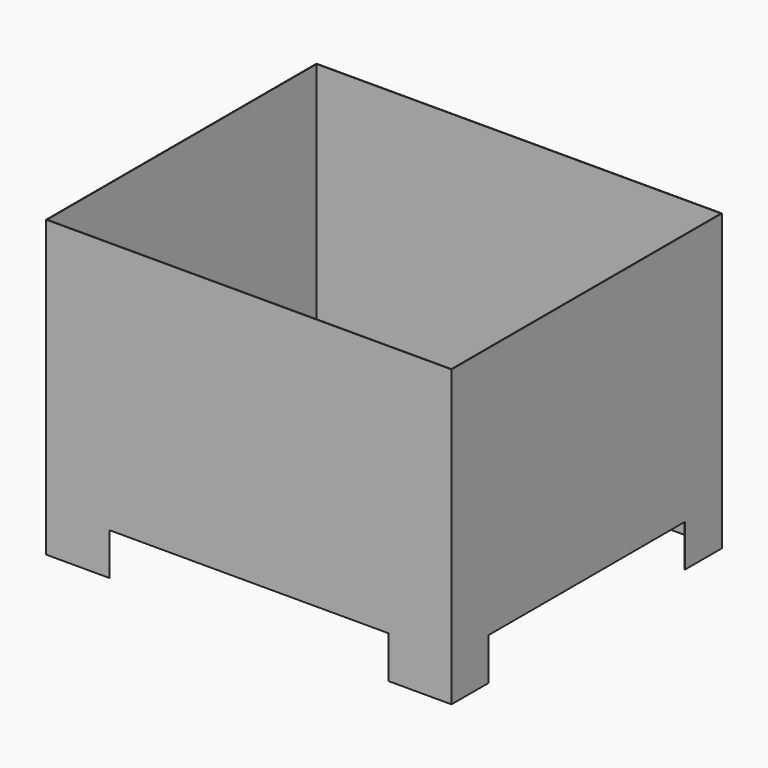
from build123d import *

# Parameters (mm, degrees)
F0_W     = 481.25
F0_H     = 350
F1_DEPTH = 401.25
F2_W     = 480
F2_H     = 400
F3_DEPTH = 350.001
F5_DEPTH = 481.251
F7_DEPTH = 401.251
F8_SCALE = 2.54


with BuildPart() as f1:
    # F0 (on Front) → F1 (new body)
    with BuildSketch(Plane.XZ):
        with Locations((240.625, 175)):
            Rectangle(F0_W, F0_H)
    extrude(amount=-F1_DEPTH)

    # F2 (on face) → F3 (cut, through all)
    with BuildSketch(Plane.XY.offset(350)):
        with Locations((240.625, 200.625)):
            Rectangle(F2_W, F2_H)
    extrude(amount=-F3_DEPTH, mode=Mode.SUBTRACT)

    # F4 (on face) → F5 (cut, through all)
    with BuildSketch(Plane(origin=(0, 0, 0), x_dir=(0, -1, 0), z_dir=(-1, 0, 0))):
        Polygon((-346.25, 50), (-346.25, 0), (-346.25, -50), (-55, -50), (-55, 50), align=None)
    extrude(amount=-F5_DEPTH, mode=Mode.SUBTRACT)

    # F6 (on face) → F7 (cut, through all)
    with BuildSketch(Plane.XZ):
        Polygon((75, 50), (75, 0), (75, -50), (406.25, -50), (406.25, 50), align=None)
    extrude(amount=-F7_DEPTH, mode=Mode.SUBTRACT)


with BuildPart() as f1_1:
    # F8: moved
    add(f1.part.scale(F8_SCALE).moved(Location((-741.125, 0, 0))))


solid = f1_1.part
